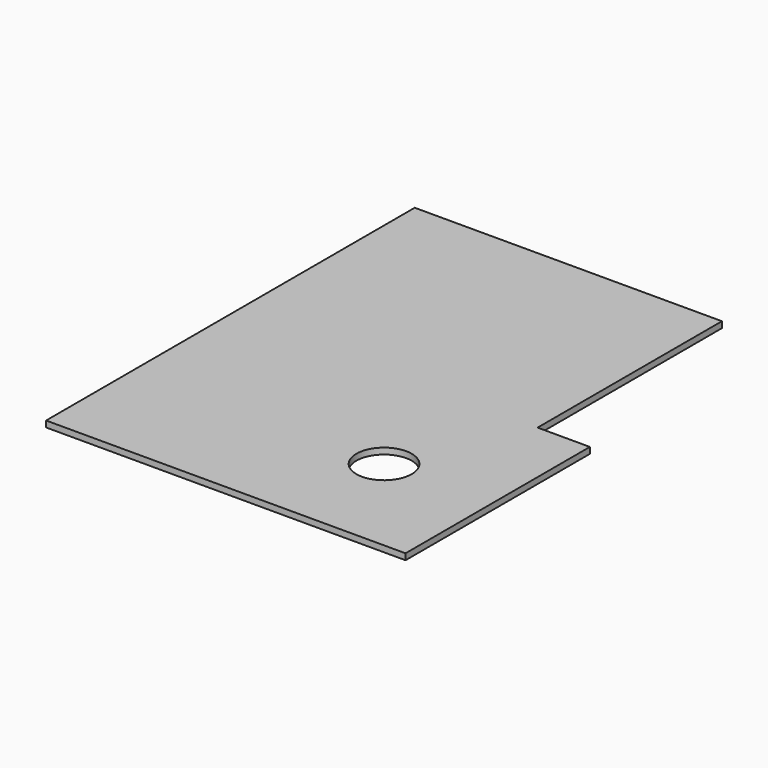
from build123d import *

# Parameters (mm, degrees)
F0_W     = 127
F0_H     = 190.5
F1_DEPTH = 2.54
F2_W     = 21.605315
F2_H     = 95.25
F3_DEPTH = 2.54
F4_R     = 12.7
F5_DEPTH = 101.870598
F6_R     = 12.7
F6_R_2   = 11.43
F7_DEPTH = 2.54


with BuildPart() as f1:
    # F0 (on Top) → F1 (new body)
    with BuildSketch(Plane.XY):
        Rectangle(F0_W, F0_H)
    extrude(amount=F1_DEPTH)

    # F2 (on face) → F3 (join)
    with BuildSketch(Plane.XY.offset(2.54)):
        with Locations((74.302657, -47.625)):
            Rectangle(F2_W, F2_H)
    extrude(amount=-F3_DEPTH)

    # F4 (on face) → F5 (cut)
    with BuildSketch(Plane.XY.offset(2.54)):
        with Locations((40.655315, -50.8)):
            Circle(F4_R)
    extrude(amount=-F5_DEPTH, mode=Mode.SUBTRACT)

    # F6 (on face) → F7 (join)
    with BuildSketch(Plane.XY.offset(2.54)):
        with Locations((40.655315, -50.8)):
            Circle(F6_R)
        with Locations((40.655315, -50.8)):
            Circle(F6_R_2, mode=Mode.SUBTRACT)
    extrude(amount=-F7_DEPTH)


solid = f1.part
